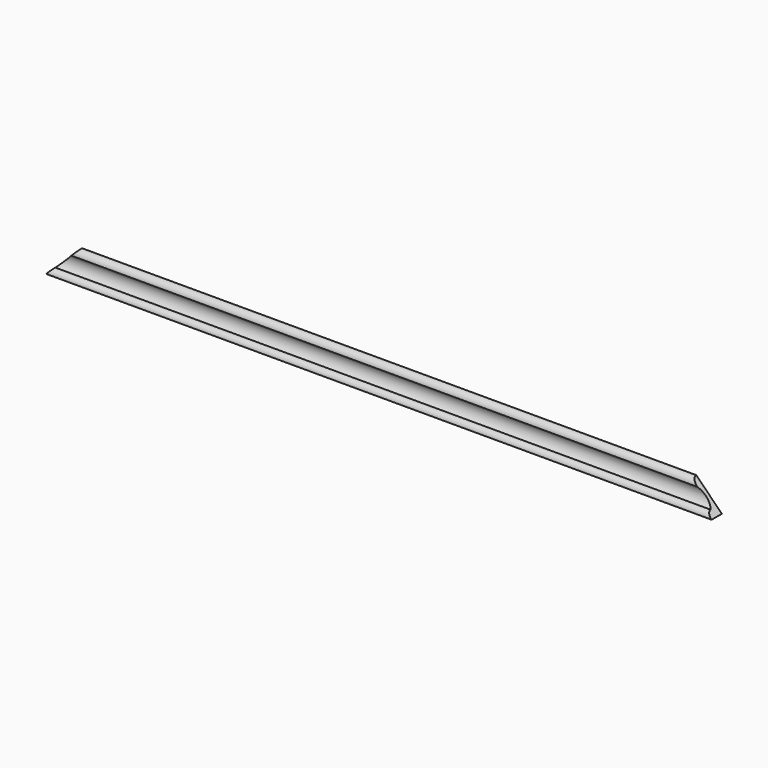
from build123d import *

# Parameters (mm, degrees)
PAD008_DEPTH = 40
PAD007_DEPTH = 40
PAD_DEPTH    = 776


with BuildPart() as body_decoration_bottom_cut_right:
    # Sketch008 → Pad008 (new body)
    with BuildSketch(Plane(origin=(780, -18, 0), x_dir=(1, 0, 0), z_dir=(0, -1, 0))):
        Polygon((-40, 40), (0, 0), (0, 40), align=None)
    extrude(amount=PAD008_DEPTH)


with BuildPart() as body_decoration_bottom_cut_left:
    # Sketch007 → Pad007 (new body)
    with BuildSketch(Plane(origin=(4, -18, 0), x_dir=(1, 0, 0), z_dir=(0, -1, 0))):
        Polygon((0, 0), (40, 40), (0, 40), align=None)
    extrude(amount=PAD007_DEPTH)


with BuildPart() as cut_decoration_bottom:
    # Sketch → Pad (new body)
    with BuildSketch(Plane(origin=(4, -18, 0), x_dir=(0, 1, 0), z_dir=(1, 0, 0))):
        with BuildLine():
            Line((0, 30), (0, 0))
            Line((0, 0), (-15, 0))
            ThreePointArc((-9, 6), (-13.242641, 4.242641), (-15, 0))
            ThreePointArc((-9, 6), (-4.435882, 14.080692), (-7, 23))
            ThreePointArc((0, 30), (-4.949747, 27.949747), (-7, 23))
        make_face()
    extrude(amount=PAD_DEPTH)

    # Cut: cut Body, Decoration, Bottom, Cut, Left
    add(body_decoration_bottom_cut_left.part, mode=Mode.SUBTRACT)

    # Cut001: cut Body, Decoration, Bottom, Cut, Right
    add(body_decoration_bottom_cut_right.part, mode=Mode.SUBTRACT)


solid = cut_decoration_bottom.part
